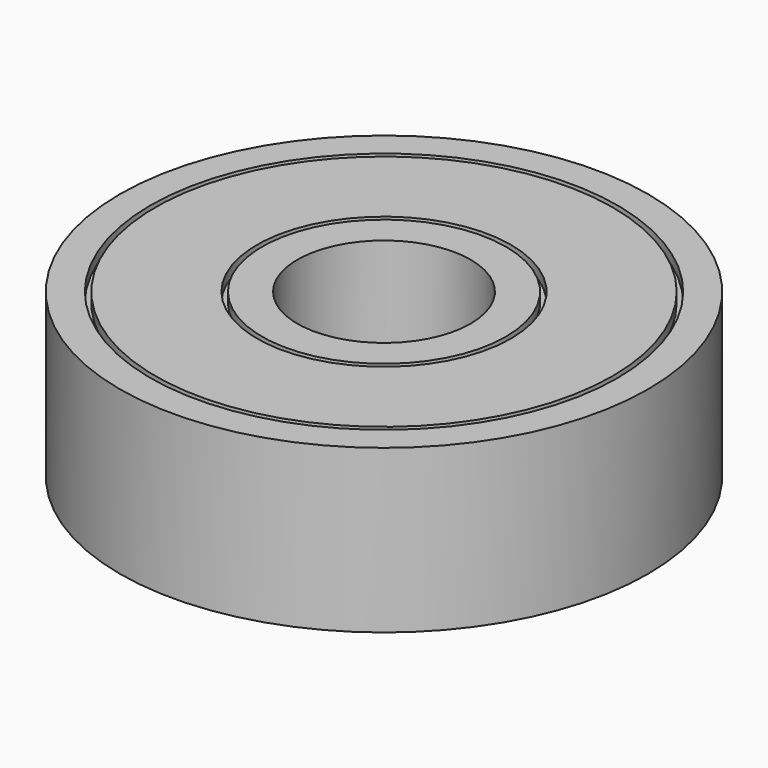
from build123d import *

# Parameters (mm, degrees)
F0_R     = 13
F0_R_2   = 11.5
F1_DEPTH = 4
F0_R_3   = 6
F0_R_4   = 4.265
F0_R_5   = 11.25
F0_R_6   = 6.25
F2_DEPTH = 3.5


with BuildPart() as f1:
    # F0 (on Top) → F1 (new body, symmetric)
    with BuildSketch(Plane.XY):
        Circle(F0_R)
        Circle(F0_R_2, mode=Mode.SUBTRACT)
    extrude(amount=F1_DEPTH, both=True)



with BuildPart() as f1b:
    # F0 (on Top) → F1, piece 2 (new body, symmetric)
    with BuildSketch(Plane.XY):
        Circle(F0_R_3)
        Circle(F0_R_4, mode=Mode.SUBTRACT)
    extrude(amount=F1_DEPTH, both=True)


with BuildPart() as f1c:
    # F0 (on Top) → F1, piece 3 (new body, symmetric)
    with BuildSketch(Plane.XY):
        Circle(F0_R_5)
        Circle(F0_R_6, mode=Mode.SUBTRACT)
    extrude(amount=F1_DEPTH, both=True)


with BuildPart() as f1_1:
    add(f1.part)

    add(f1b.part)  # F2 merges F1b

    add(f1c.part)  # F2 merges F1c
    # F0 (on Top) → F2 (join, symmetric)
    with BuildSketch(Plane.XY):
        Circle(F0_R_2)
        Circle(F0_R_5, mode=Mode.SUBTRACT)
        Circle(F0_R_6)
        Circle(F0_R_3, mode=Mode.SUBTRACT)
    extrude(amount=F2_DEPTH, both=True)


solid = f1_1.part
